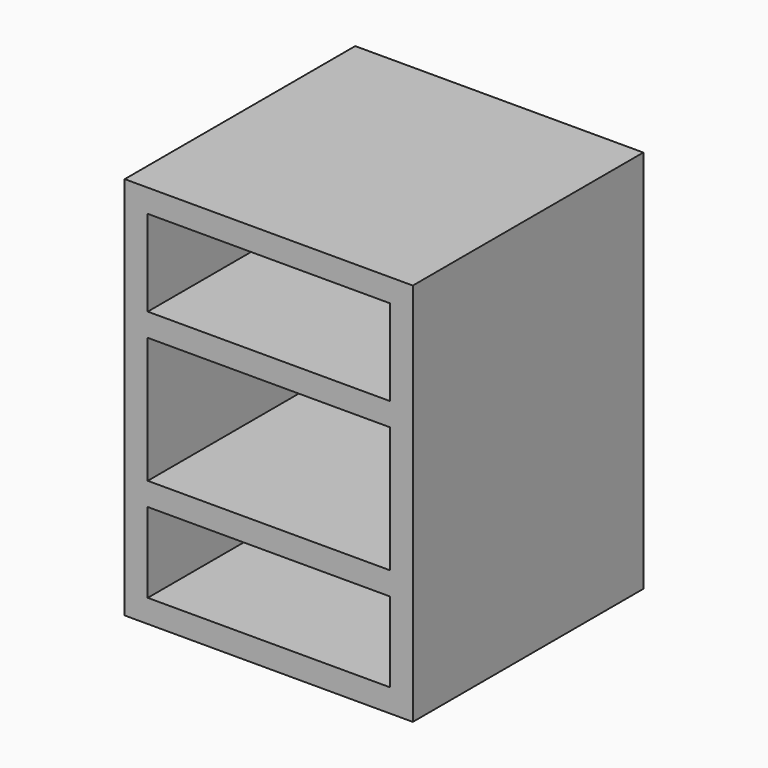
from build123d import *

# Parameters (mm, degrees)
F0_W     = 150
F0_H     = 200
F1_DEPTH = 150
F2_T     = -12
F3_W     = 126
F3_H     = 12
F4_DEPTH = 140


with BuildPart() as f1:
    # F0 (on Front) → F1 (new body)
    with BuildSketch(Plane.XZ):
        Rectangle(F0_W, F0_H)
    extrude(amount=-F1_DEPTH)

    # F2
    f2_openings = [f1.faces().sort_by_distance(p)[0] for p in [
        (0, 0, 0),
    ]]
    offset(amount=F2_T, openings=f2_openings)

    # F3 (on face) → F4 (join)
    with BuildSketch(Plane.XZ):
        with Locations((0, 37.173926213)):
            Rectangle(F3_W, F3_H)
        with Locations((0, -40.3645330455)):
            Rectangle(F3_W, F3_H)
    extrude(amount=-F4_DEPTH)


solid = f1.part
